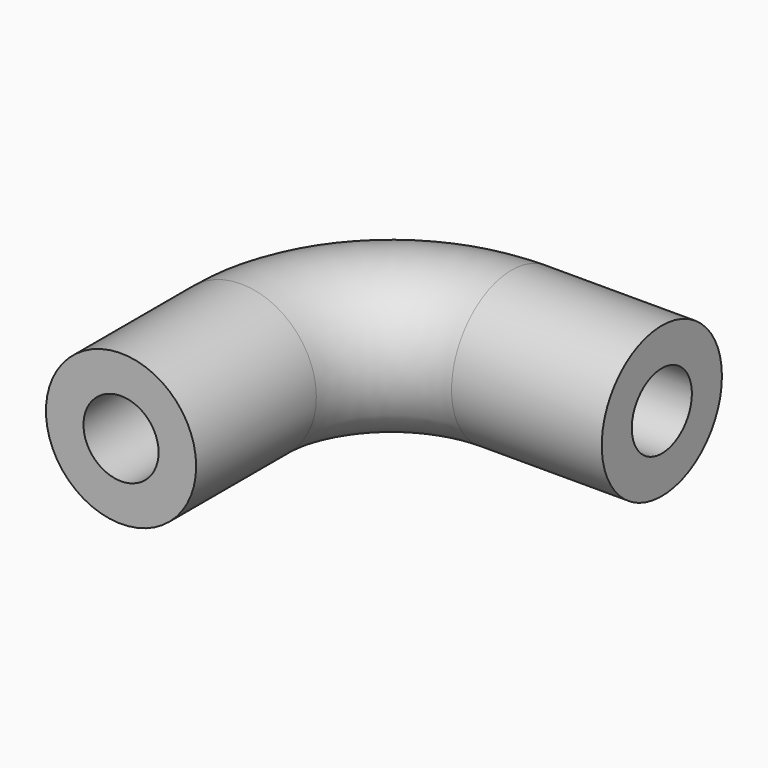
from build123d import *

# Parameters (mm, degrees)
F0_R        = 6.35
F0_R_2      = 3.175
F1_DEPTH    = 12.7
F2_R        = 6.35
F2_R_2      = 3.175
F3_DEPTH    = 12.7
F1_FACE_R   = 6.35
F1_FACE_R_2 = 3.175


with BuildPart() as f1:
    # F0 (on Right) → F1 (new body)
    with BuildSketch(Plane.YZ):
        with Locations((25.4, 0)):
            Circle(F0_R)
        with Locations((25.4, 0)):
            Circle(F0_R_2, mode=Mode.SUBTRACT)
    extrude(amount=-F1_DEPTH)



with BuildPart() as f3:
    # F2 (on Front) → F3 (new body)
    with BuildSketch(Plane.XZ):
        with Locations((-25.4, 0)):
            Circle(F2_R)
        with Locations((-25.4, 0)):
            Circle(F2_R_2, mode=Mode.SUBTRACT)
    extrude(amount=-F3_DEPTH)


with BuildPart() as f1_1:
    add(f1.part)

    add(f3.part)  # F5 merges F3
    # F5: sweep along a path in F4
    with BuildLine(Plane.XY) as f5_path:
        ThreePointArc((-12.7, 38.1), (-30.6605122421, 30.6605122421), (-38.1, 12.7))
    # F1_face (on face) → F5 (sweep)
    with BuildSketch(Plane(origin=(-12.7, 25.4, 0), x_dir=(0, 1, 0), z_dir=(-1, 0, 0))):
        Circle(F1_FACE_R)
        Circle(F1_FACE_R_2, mode=Mode.SUBTRACT)
    sweep(path=f5_path.line)


solid = f1_1.part
